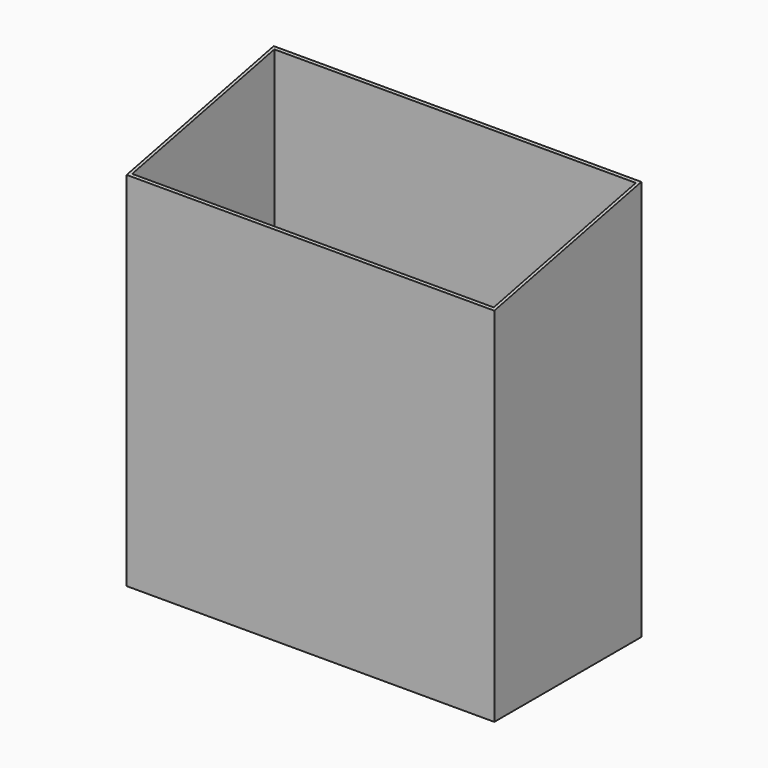
from build123d import *

# Parameters (mm, degrees)
F0_W     = 300
F0_H     = 150
F1_DEPTH = 327
F2_T     = -2.5
F4_DEPTH = 346


with BuildPart() as f1:
    # F0 (on Top) → F1 (new body)
    with BuildSketch(Plane.XY):
        with Locations((150, 75)):
            Rectangle(F0_W, F0_H)
    extrude(amount=F1_DEPTH)

    # F2
    f2_openings = [f1.faces().sort_by_distance(p)[0] for p in [
        (150, 75, 327),
    ]]
    offset(amount=F2_T, openings=f2_openings)

    # F3 (on face) → F4 (cut)
    with BuildSketch(Plane.YZ.offset(300)):
        Polygon((0, 295.443952), (150, 327), (0, 327), align=None)
    extrude(amount=-F4_DEPTH, mode=Mode.SUBTRACT)


solid = f1.part
